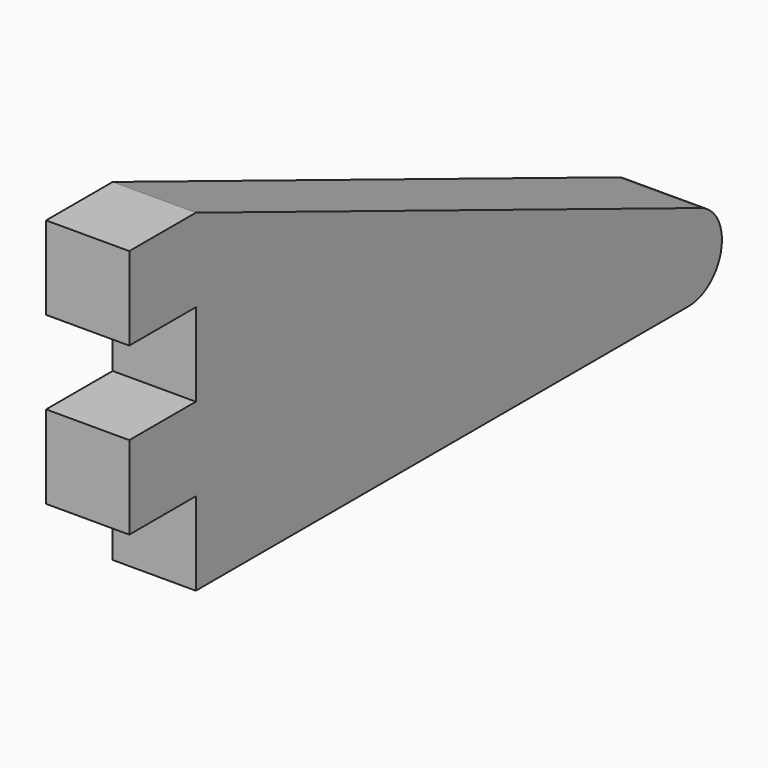
from build123d import *

# Parameters (mm, degrees)
F1_DEPTH = 4


with BuildPart() as f1:
    # F0 (on Right) → F1 (new body)
    with BuildSketch(Plane.YZ):
        with BuildLine():
            Line((34.357617, 3.856953), (4, 16))
            Line((4, 16), (0, 16))
            Line((0, 16), (0, 12))
            Line((0, 12), (4, 12))
            Line((4, 12), (4, 8))
            Line((4, 8), (0, 8))
            Line((0, 8), (0, 4))
            Line((0, 4), (4, 4))
            Line((4, 4), (4, 0))
            Line((4, 0), (33.614835, 0))
            ThreePointArc((33.614835, 0), (35.578748, 1.621785), (34.357617, 3.856953))
        make_face()
    extrude(amount=F1_DEPTH)


solid = f1.part
